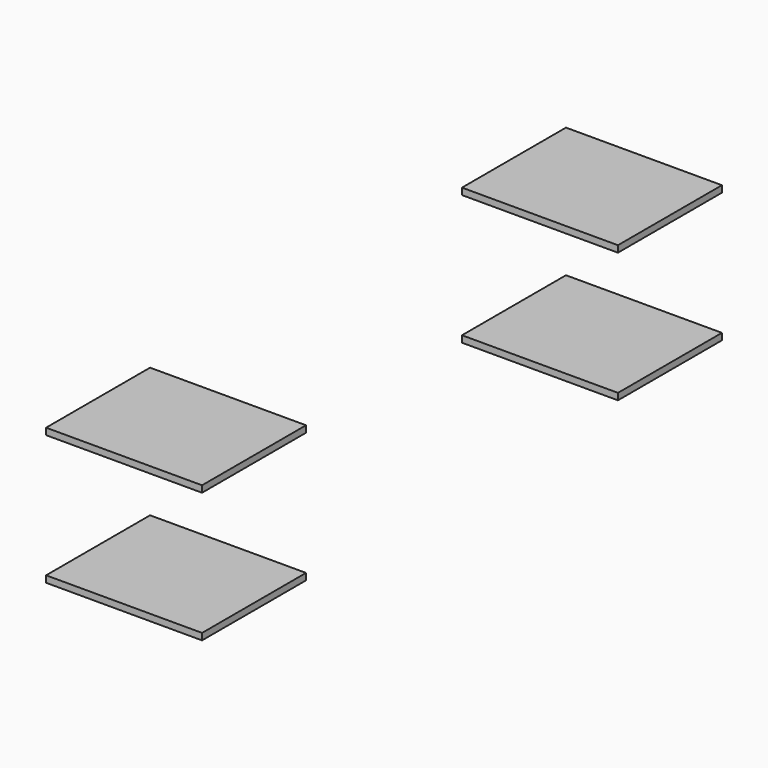
from build123d import *

# Parameters (mm, degrees)
SKETCH001_W    = 600
SKETCH001_H    = 500
PAD001_DEPTH   = 12.7
ARRAY_Z_COUNT  = 2
ARRAY_Z_PITCH  = 500
ARRAY008_COUNT = 2
ARRAY008_ANGLE = 180


with BuildPart() as part:
    # Sketch001 → Pad001 (new body, symmetric)
    with BuildSketch(Plane.XY):
        with Locations((0, 1000)):
            Rectangle(SKETCH001_W, SKETCH001_H)
    extrude(amount=PAD001_DEPTH, both=True)

    # Array Z: part ×2


with BuildPart() as part_1:
    add(part.part)
    with Locations(*[(0, 0, i * ARRAY_Z_PITCH) for i in range(1, ARRAY_Z_COUNT)]):
        add(part.part)


with BuildPart() as part_2:
    # Array placement: moved
    add(part_1.part.moved(Location((0, 0, 300))))

    # Array008: part ×2 about axis
    array008_axis = Axis((0, 0, 0), (0, 0, 1))


with BuildPart() as part_3:
    add(part_2.part)
    for i in range(1, ARRAY008_COUNT):
        add(part_2.part.rotate(array008_axis, i * ARRAY008_ANGLE / (ARRAY008_COUNT - 1)))


solid = part_3.part
